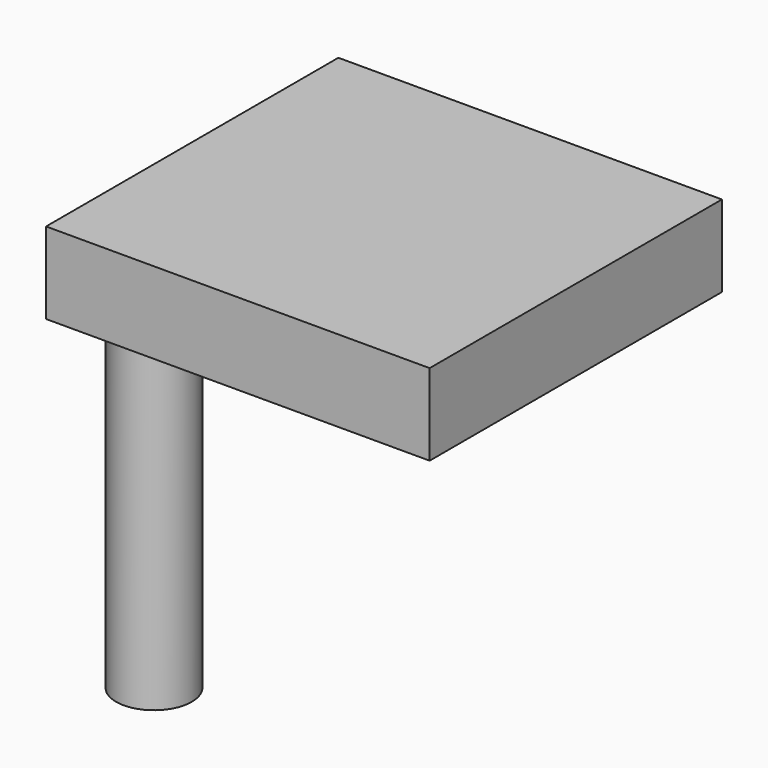
from build123d import *

# Parameters (mm, degrees)
F0_W     = 160
F0_H     = 34
F1_DEPTH = 152.4
F2_R     = 15.773728
F3_DEPTH = 137


with BuildPart() as f1:
    # F0 (on Front) → F1 (new body)
    with BuildSketch(Plane.XZ):
        with Locations((18.404959, 17)):
            Rectangle(F0_W, F0_H)
    extrude(amount=-F1_DEPTH)

    # F2 (on Top) → F3 (join)
    with BuildSketch(Plane.XY):
        with Locations((-36.002856, 24.256775)):
            Circle(F2_R)
    extrude(amount=-F3_DEPTH)


solid = f1.part
